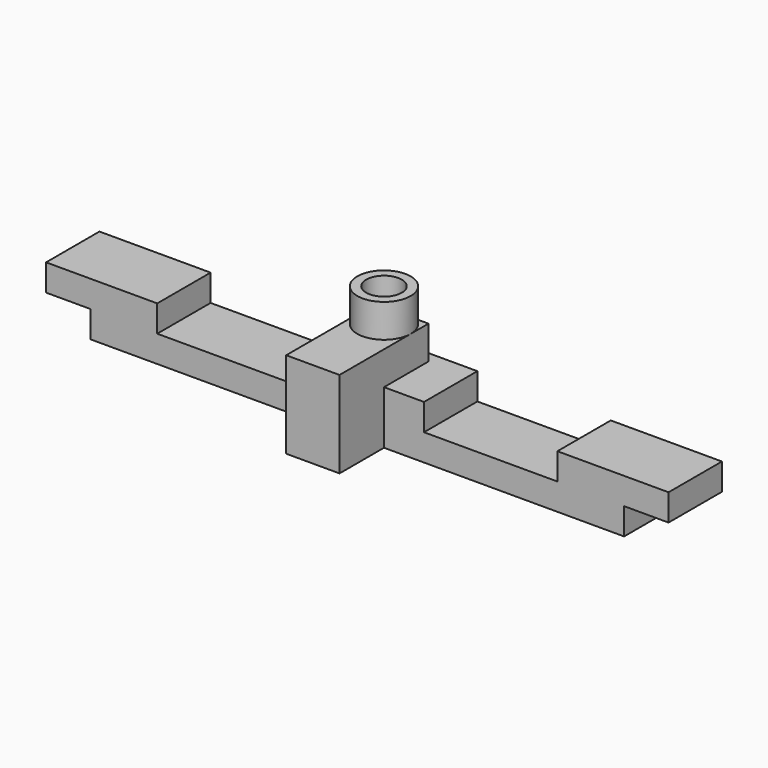
from build123d import *

# Parameters (mm, degrees)
CYLINDER136_R          = 0.2
CYLINDER136_DEPTH      = 9
BOX001_W               = 1
BOX001_H               = 2
BOX001_DEPTH           = 2
BOX002_W               = 1
BOX002_H               = 2
BOX002_DEPTH           = 2
BOX004_W               = 1.5
BOX004_H               = 2
BOX004_DEPTH           = 1
BOX005_W               = 1.5
BOX005_H               = 2
BOX005_DEPTH           = 1
CYLINDER138_R          = 0.165
CYLINDER138_DEPTH      = 14
CYLINDER138_ROLL_ANGLE = -90
BOX003_W               = 0.6
BOX003_H               = 1.25
BOX003_DEPTH           = 0.975
CYLINDER140_R          = 0.3
CYLINDER140_DEPTH      = 0.75
BOX_W                  = 7
BOX_H                  = 0.75
BOX_DEPTH              = 0.6


with BuildPart() as bowtienozzle:
    # Cylinder136 → Cylinder136 (new body)
    with BuildSketch(Plane.XY):
        Circle(CYLINDER136_R)
    extrude(amount=CYLINDER136_DEPTH)


with BuildPart() as cube:
    # Box001 → Box001 (new body)
    with BuildSketch(Plane(origin=(3, -1, -2), x_dir=(1, 0, 0), z_dir=(0, 0, 1))):
        with Locations((0.5, 1)):
            Rectangle(BOX001_W, BOX001_H)
    extrude(amount=BOX001_DEPTH)


with BuildPart() as cube001:
    # Box002 → Box002 (new body)
    with BuildSketch(Plane(origin=(-4, -1, -2), x_dir=(1, 0, 0), z_dir=(0, 0, 1))):
        with Locations((0.5, 1)):
            Rectangle(BOX002_W, BOX002_H)
    extrude(amount=BOX002_DEPTH)


with BuildPart() as cube003:
    # Box004 → Box004 (new body)
    with BuildSketch(Plane(origin=(0.75, -1, 0), x_dir=(1, 0, 0), z_dir=(0, 0, 1))):
        with Locations((0.75, 1)):
            Rectangle(BOX004_W, BOX004_H)
    extrude(amount=BOX004_DEPTH)


with BuildPart() as cube004:
    # Box005 → Box005 (new body)
    with BuildSketch(Plane(origin=(-2.25, -1, 0), x_dir=(1, 0, 0), z_dir=(0, 0, 1))):
        with Locations((0.75, 1)):
            Rectangle(BOX005_W, BOX005_H)
    extrude(amount=BOX005_DEPTH)


with BuildPart() as fusion001:
    # Cylinder138 → Cylinder138 (new body)
    with BuildSketch(Plane.XY):
        Circle(CYLINDER138_R)
    extrude(amount=CYLINDER138_DEPTH)


with BuildPart() as fusion001_1:
    # Cylinder138 roll: moved
    add(fusion001.part.rotate(Axis((0, 0, 0), (1, 0, 0)), CYLINDER138_ROLL_ANGLE))


with BuildPart() as fusion001_2:
    # Cylinder138 placement: moved
    add(fusion001_1.part.moved(Location((0, -0.165, 0))))

    # Fusion001: union BowTieNozzle, Cube, Cube001, Cube003, Cube004
    add(bowtienozzle.part)
    add(cube.part)
    add(cube001.part)
    add(cube003.part)
    add(cube004.part)


with BuildPart() as cube002:
    # Box003 → Box003 (new body)
    with BuildSketch(Plane(origin=(-0.3, -1, -0.3), x_dir=(1, 0, 0), z_dir=(0, 0, 1))):
        with Locations((0.3, 0.625)):
            Rectangle(BOX003_W, BOX003_H)
    extrude(amount=BOX003_DEPTH)


with BuildPart() as nozzle_od:
    # Cylinder140 → Cylinder140 (new body)
    with BuildSketch(Plane.XY.offset(0.3)):
        Circle(CYLINDER140_R)
    extrude(amount=CYLINDER140_DEPTH)


with BuildPart() as cut:
    # Box → Box (new body)
    with BuildSketch(Plane(origin=(-3.5, -0.375, -0.3), x_dir=(1, 0, 0), z_dir=(0, 0, 1))):
        with Locations((3.5, 0.375)):
            Rectangle(BOX_W, BOX_H)
    extrude(amount=BOX_DEPTH)

    # Fusion: union Nozzle_OD
    add(nozzle_od.part)

    # Fusion002: union Cube002
    add(cube002.part)

    # Cut: cut Fusion001
    add(fusion001_2.part, mode=Mode.SUBTRACT)


solid = cut.part
